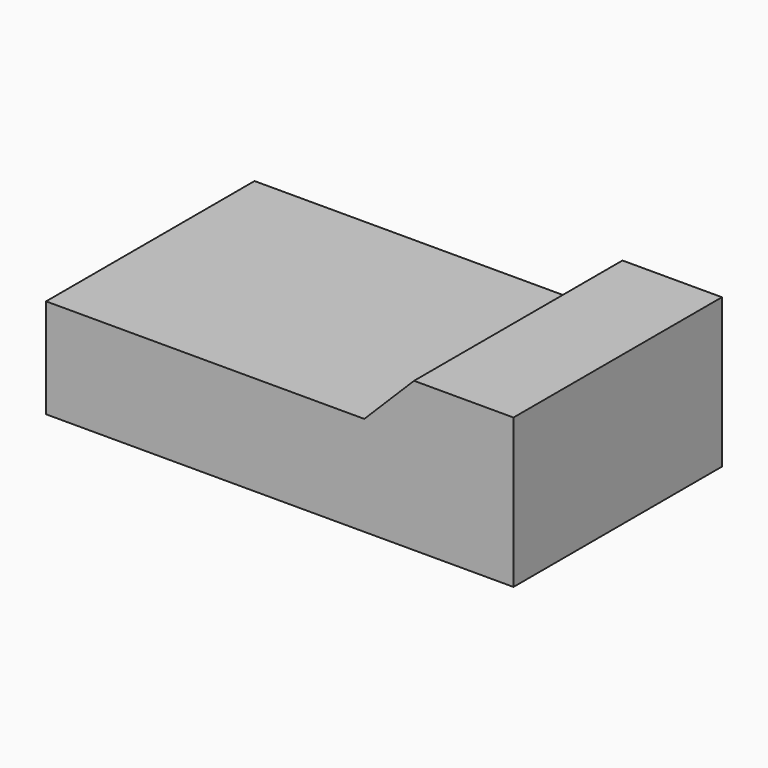
from build123d import *

# Parameters (mm, degrees)
F0_W     = 47
F0_H     = 26.2
F1_DEPTH = 15
F3_DEPTH = 26.201


with BuildPart() as f1:
    # F0 (on Top) → F1 (new body)
    with BuildSketch(Plane.XY):
        Rectangle(F0_W, F0_H)
    extrude(amount=F1_DEPTH)

    # F2 (on face) → F3 (cut, through all)
    with BuildSketch(Plane.XZ.offset(13.1)):
        Polygon((8.5, 10), (13.5, 15), (-23.5, 15), (-23.5, 10), align=None)
    extrude(amount=-F3_DEPTH, mode=Mode.SUBTRACT)


solid = f1.part
